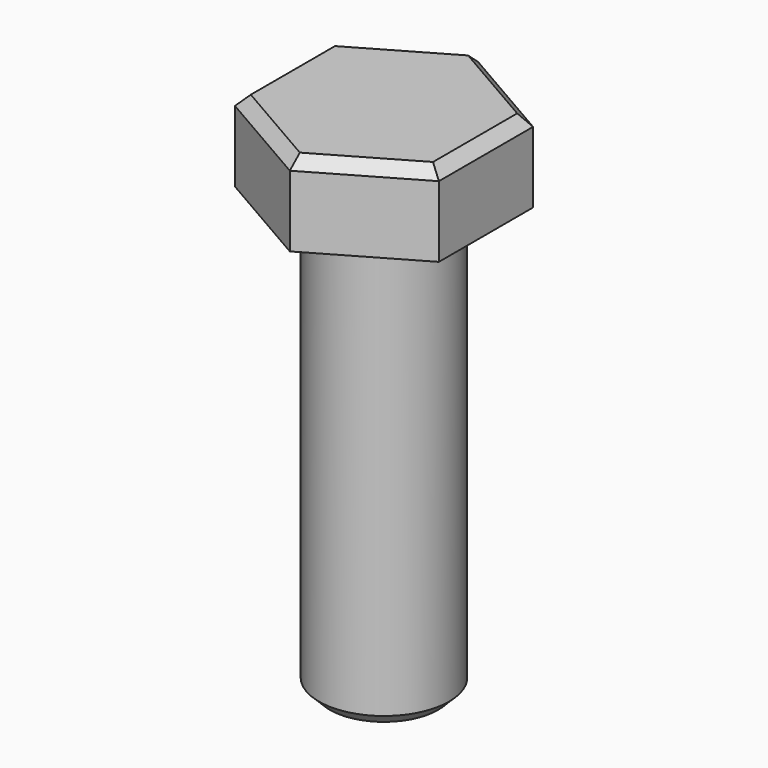
from build123d import *

# Parameters (mm, degrees)
F0_R     = 6
F1_DEPTH = 20
F3_DEPTH = 7.55
F4_SIZE  = 1
F5_SIZE  = 1


with BuildPart() as f1:
    # F0 (on Top) → F1 (new body, symmetric)
    with BuildSketch(Plane.XY):
        Circle(F0_R)
    extrude(amount=F1_DEPTH, both=True)

    # F2 (on face) → F3 (join)
    with BuildSketch(Plane.XY.offset(20)):
        Polygon((0, 10.854185), (-9.4, 5.427093), (-9.4, -5.427093), (0, -10.854185), (9.4, -5.427093), (9.4, 5.427093), align=None)
    extrude(amount=F3_DEPTH)

    # F4
    f4_edges = [f1.edges().sort_by_distance(p)[0] for p in [
        (-6, 0, -20),
    ]]
    chamfer(f4_edges, length=F4_SIZE)

    # F5
    f5_edges = [f1.edges().sort_by_distance(p)[0] for p in [
        (4.7, 8.140639, 27.55),
        (-4.7, 8.140639, 27.55),
        (-9.4, 0, 27.55),
        (-4.7, -8.140639, 27.55),
        (4.7, -8.140639, 27.55),
        (9.4, 0, 27.55),
    ]]
    chamfer(f5_edges, length=F5_SIZE)


solid = f1.part
